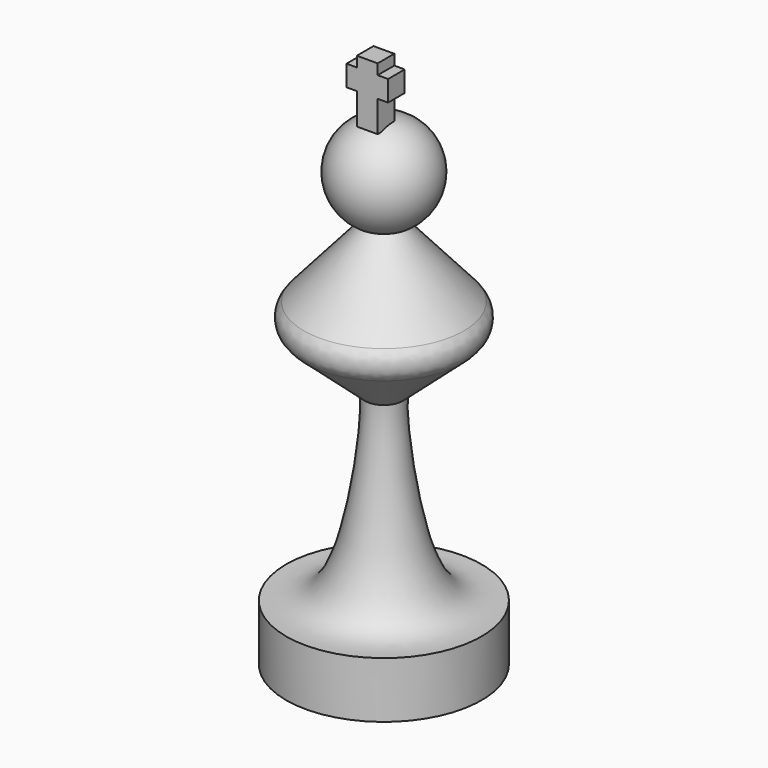
from build123d import *

# Parameters (mm, degrees)
F0_W     = 5
F0_H     = 15
F1_DEPTH = 5
F2_W     = 10
F2_H     = 5
F3_DEPTH = 5
F6_R     = 5


with BuildPart() as f1:
    # F0 (on Front) → F1 (new body)
    with BuildSketch(Plane.XZ):
        with Locations((0, 122.5)):
            Rectangle(F0_W, F0_H)
    extrude(amount=F1_DEPTH)

    # F2 (on Front) → F3 (join)
    with BuildSketch(Plane.XZ):
        with Locations((0, 125)):
            Rectangle(F2_W, F2_H)
    extrude(amount=F3_DEPTH)

    # F4 (on Front) → F5 (revolve)
    with BuildSketch(Plane.XZ):
        with BuildLine():
            Line((0, 0), (0, 116.0027790625))
            ThreePointArc((0, 116.0027790625), (-11.5318288714, 106.5712142822), (-4.5754415185, 93.3975220769))
            Line((-4.5754415185, 93.3975220769), (-22.5224215537, 73.0274617672))
            Line((-22.5224215537, 73.0274617672), (-4.5754415185, 57.2153292803))
            add(Edge.make_bspline(
                [(-4.5754415185, 57.2153292803), (-4.4751641327, 56.0238017391), (-4.1175165379, 51.7741201604), (-8.9838991311, 12.8241412869), (-19.6573992459, 13.3243982282), (-23.4876684844, 13.5039193556)],
                knots=[0, 0, 0, 0, 0.1998744201, 0.7128686595, 1, 1, 1, 1], degree=3))
            Line((-23.4876684844, 13.5039193556), (-23.4876684844, 0))
            Line((-23.4876684844, 0), (0, 0))
        make_face()
    revolve(axis=Axis((0, 0, 58.0013895312), (0, 0, 1)))

    # F6
    f6_edges = [f1.edges().sort_by_distance(p)[0] for p in [
        (22.522422, 0, 73.027462),
    ]]
    fillet(f6_edges, radius=F6_R)


solid = f1.part
